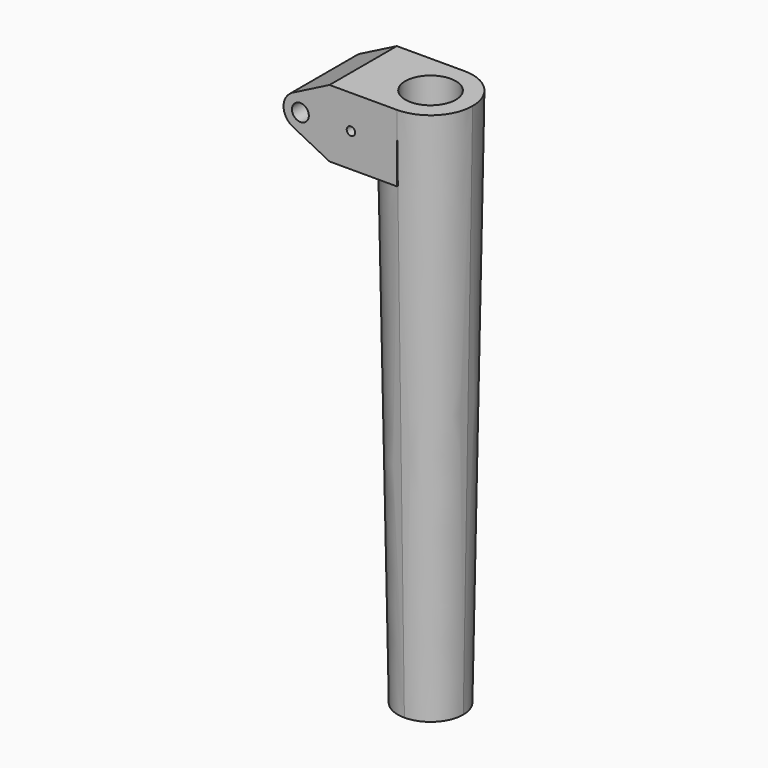
from build123d import *

# Parameters (mm, degrees)
F0_W     = 101.6
F0_H     = 101.6
F0_R     = 12.7
F1_DEPTH = 63.5
F3_DEPTH = 812.8
F3_TAPER = 1
F4_R     = 38.1
F5_DEPTH = 812.8010001
F6_R     = 6.35
F7_DEPTH = 127.0010001


with BuildPart() as f1:
    # F0 (on Front) → F1 (new body, symmetric)
    with BuildSketch(Plane.XZ):
        with Locations((-50.8, 50.8)):
            Rectangle(F0_W, F0_H)
        with BuildLine():
            Line((-158.1918704234, 28.8029547439), (-101.6, 0))
            Line((-101.6, 0), (-101.6, 101.6))
            Line((-101.6, 101.6), (-158.1918704234, 72.7970452561))
            ThreePointArc((-158.1918704234, 72.7970452561), (-170.8918704234, 50.8), (-158.1918704234, 28.8029547439))
        make_face()
        with Locations((-145.4918704234, 50.8)):
            Circle(F0_R, mode=Mode.SUBTRACT)
    extrude(amount=F1_DEPTH, both=True)

    # F2 (on face) → F3 (join)
    with BuildSketch(Plane.XY.offset(101.6)):
        with BuildLine():
            ThreePointArc((0, 63.5), (-63.5, 0), (0, -63.5))
            Line((0, -63.5), (0, 63.5))
        make_face()
        with BuildLine():
            Line((0, 63.5), (0, -63.5))
            ThreePointArc((0, -63.5), (44.9012806053, -44.9012806053), (63.5, 0))
            ThreePointArc((63.5, 0), (44.9012806053, 44.9012806053), (0, 63.5))
        make_face()
    extrude(amount=-F3_DEPTH, taper=F3_TAPER)

    # F4 (on face) → F5 (cut, through all)
    with BuildSketch(Plane.XY.offset(101.6)):
        Circle(F4_R)
    extrude(amount=-F5_DEPTH, mode=Mode.SUBTRACT)

    # F6 (on face) → F7 (cut, through all)
    with BuildSketch(Plane.XZ.offset(63.5)):
        with Locations((-69.2918704234, 50.8)):
            Circle(F6_R)
    extrude(amount=-F7_DEPTH, mode=Mode.SUBTRACT)


solid = f1.part
